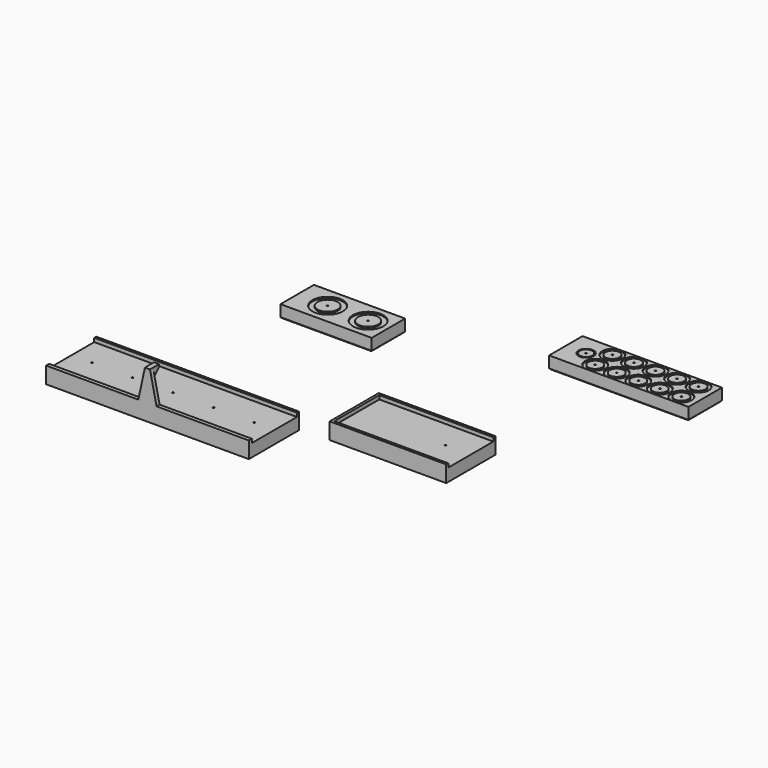
from build123d import *

# Parameters (mm, degrees)
SKETCH_W        = 160
SKETCH_H        = 44.45
SKETCH_R        = 0.6
PAD_DEPTH       = 10
SKETCH001_W     = 160
SKETCH001_H     = 3
SKETCH001_H_2   = 2
PAD001_DEPTH    = 13
PAD002_DEPTH    = 3
PAD003_DEPTH    = 2
SKETCH010_R     = 12
SKETCH010_R_2   = 8
POCKET002_DEPTH = 1
SKETCH004_W     = 90
SKETCH004_H     = 44.45
SKETCH004_R     = 0.6
PAD004_DEPTH    = 10
PAD005_DEPTH    = 13
SKETCH011_R     = 12
SKETCH011_R_2   = 8
POCKET003_DEPTH = 1
SKETCH006_W     = 72
SKETCH006_H     = 33
SKETCH006_R     = 0.6
PAD006_DEPTH    = 10
SKETCH012_R     = 12
SKETCH012_R_2   = 8
POCKET004_DEPTH = 1
SKETCH014_W     = 10
SKETCH014_H     = 4
POCKET006_DEPTH = 8
CHAMFER001_SIZE = 1
SKETCH007_W     = 110
SKETCH007_H     = 33
SKETCH007_R     = 0.6
PAD007_DEPTH    = 10
SKETCH008_W     = 8
SKETCH008_H     = 4
POCKET_DEPTH    = 8
SKETCH013_R     = 6
SKETCH013_R_2   = 5
SKETCH013_R_3   = 8
SKETCH013_R_4   = 5.5
POCKET005_DEPTH = 1
CHAMFER_SIZE    = 1


with BuildPart() as buttons:
    # Sketch → Pad (new body)
    with BuildSketch(Plane.XY):
        Rectangle(SKETCH_W, SKETCH_H)
        with Locations((-64, 0)):
            Circle(SKETCH_R, mode=Mode.SUBTRACT)
        with Locations((-32, 0)):
            Circle(SKETCH_R, mode=Mode.SUBTRACT)
        Circle(SKETCH_R, mode=Mode.SUBTRACT)
        with Locations((32, 0)):
            Circle(SKETCH_R, mode=Mode.SUBTRACT)
        with Locations((64, 0)):
            Circle(SKETCH_R, mode=Mode.SUBTRACT)
    extrude(amount=PAD_DEPTH)

    # Sketch001 → Pad001 (join)
    with BuildSketch(Plane.XY):
        with Locations((0, -23.725)):
            Rectangle(SKETCH001_W, SKETCH001_H)
        with Locations((0, 23.225)):
            Rectangle(SKETCH001_W, SKETCH001_H_2)
    extrude(amount=PAD001_DEPTH)

    # Sketch002 (on Face1 of Pad001) → Pad002 (join)
    with BuildSketch(Plane.XZ.offset(25.225)):
        Polygon((-10, 0), (10, 0), (2, 37), (-2, 37), align=None)
    extrude(amount=-PAD002_DEPTH)

    # Sketch003 → Pad003 (join, symmetric)
    with BuildSketch(Plane.YZ):
        Polygon((-22.225, 37), (-16.225, 37), (-16.225, 35), (-22.225, 29), align=None)
    extrude(amount=PAD003_DEPTH, both=True)

    # Sketch010 (on Face2 of Pad003) → Pocket002 (cut)
    with BuildSketch(Plane(origin=(0, 0, 0), x_dir=(1, 0, 0), z_dir=(0, 0, -1))):
        with Locations((64, 0)):
            Circle(SKETCH010_R)
        with Locations((64, 0)):
            Circle(SKETCH010_R_2, mode=Mode.SUBTRACT)
        with Locations((32, 0)):
            Circle(SKETCH010_R)
        with Locations((32, 0)):
            Circle(SKETCH010_R_2, mode=Mode.SUBTRACT)
        Circle(SKETCH010_R)
        Circle(SKETCH010_R_2, mode=Mode.SUBTRACT)
        with Locations((-32, 0)):
            Circle(SKETCH010_R)
        with Locations((-32, 0)):
            Circle(SKETCH010_R_2, mode=Mode.SUBTRACT)
        with Locations((-64, 0)):
            Circle(SKETCH010_R)
        with Locations((-64, 0)):
            Circle(SKETCH010_R_2, mode=Mode.SUBTRACT)
    extrude(amount=-POCKET002_DEPTH, mode=Mode.SUBTRACT)


with BuildPart() as buttons_1:
    # Body placement: moved
    add(buttons.part.moved(Location((-100, -100, 0))))


with BuildPart() as oled:
    # Sketch004 → Pad004 (new body)
    with BuildSketch(Plane.XY):
        Rectangle(SKETCH004_W, SKETCH004_H)
        with Locations((25, 0)):
            Circle(SKETCH004_R, mode=Mode.SUBTRACT)
    extrude(amount=PAD004_DEPTH)

    # Sketch005 → Pad005 (join)
    with BuildSketch(Plane.XY):
        Polygon((45, -22.225), (45, -24.225), (-47, -24.225), (-47, 24.225), (45, 24.225), (45, 22.225), (-45, 22.225), (-45, -22.225), align=None)
    extrude(amount=PAD005_DEPTH)

    # Sketch011 (on Face11 of Pad005) → Pocket003 (cut)
    with BuildSketch(Plane(origin=(0, 0, 0), x_dir=(1, 0, 0), z_dir=(0, 0, -1))):
        with Locations((25, 0)):
            Circle(SKETCH011_R)
        with Locations((25, 0)):
            Circle(SKETCH011_R_2, mode=Mode.SUBTRACT)
    extrude(amount=-POCKET003_DEPTH, mode=Mode.SUBTRACT)


with BuildPart() as oled_1:
    # Body001 placement: moved
    add(oled.part.moved(Location((50, -50, 0))))


with BuildPart() as ac:
    # Sketch006 → Pad006 (new body)
    with BuildSketch(Plane.XY):
        with Locations((-36, 0)):
            Rectangle(SKETCH006_W, SKETCH006_H)
        with Locations((-16, 0)):
            Circle(SKETCH006_R, mode=Mode.SUBTRACT)
        with Locations((-48, 0)):
            Circle(SKETCH006_R, mode=Mode.SUBTRACT)
    extrude(amount=PAD006_DEPTH)

    # Sketch012 (on Face8 of Pad006) → Pocket004 (cut)
    with BuildSketch(Plane.XY.offset(10)):
        with Locations((-16, 0)):
            Circle(SKETCH012_R)
        with Locations((-16, 0)):
            Circle(SKETCH012_R_2, mode=Mode.SUBTRACT)
        with Locations((-48, 0)):
            Circle(SKETCH012_R)
        with Locations((-48, 0)):
            Circle(SKETCH012_R_2, mode=Mode.SUBTRACT)
    extrude(amount=-POCKET004_DEPTH, mode=Mode.SUBTRACT)

    # Sketch014 (on Face3 of Pocket004) → Pocket006 (cut)
    with BuildSketch(Plane(origin=(-72, 0, 0), x_dir=(0, -1, 0), z_dir=(-1, 0, 0))):
        with Locations((0, 2)):
            Rectangle(SKETCH014_W, SKETCH014_H)
    extrude(amount=-POCKET006_DEPTH, mode=Mode.SUBTRACT)

    # Chamfer001
    chamfer001_edges = [ac.edges().sort_by_distance(p)[0] for p in [
        (-72, -10.75, 0),
        (-72, 10.75, 0),
        (-36, -16.5, 0),
        (0, 0, 0),
        (-36, 16.5, 0),
    ]]
    chamfer(chamfer001_edges, length=CHAMFER001_SIZE)


with BuildPart() as ac_1:
    # Body002 placement: moved
    add(ac.part.moved(Location((-50, 50, 0))))


with BuildPart() as dc:
    # Sketch007 → Pad007 (new body)
    with BuildSketch(Plane.XY):
        with Locations((55, 0)):
            Rectangle(SKETCH007_W, SKETCH007_H)
        with Locations((16, 0)):
            Circle(SKETCH007_R, mode=Mode.SUBTRACT)
        with Locations((30, 8.5)):
            Circle(SKETCH007_R, mode=Mode.SUBTRACT)
        with Locations((47, 8.5)):
            Circle(SKETCH007_R, mode=Mode.SUBTRACT)
        with Locations((64, 8.5)):
            Circle(SKETCH007_R, mode=Mode.SUBTRACT)
        with Locations((81, 8.5)):
            Circle(SKETCH007_R, mode=Mode.SUBTRACT)
        with Locations((98, 8.5)):
            Circle(SKETCH007_R, mode=Mode.SUBTRACT)
        with Locations((30, -8.5)):
            Circle(SKETCH007_R, mode=Mode.SUBTRACT)
        with Locations((47, -8.5)):
            Circle(SKETCH007_R, mode=Mode.SUBTRACT)
        with Locations((64, -8.5)):
            Circle(SKETCH007_R, mode=Mode.SUBTRACT)
        with Locations((81, -8.5)):
            Circle(SKETCH007_R, mode=Mode.SUBTRACT)
        with Locations((98, -8.5)):
            Circle(SKETCH007_R, mode=Mode.SUBTRACT)
    extrude(amount=PAD007_DEPTH)

    # Sketch008 (on Face1 of Pad007) → Pocket (cut)
    with BuildSketch(Plane(origin=(0, 0, 0), x_dir=(0, -1, 0), z_dir=(-1, 0, 0))):
        with Locations((0, 2)):
            Rectangle(SKETCH008_W, SKETCH008_H)
    extrude(amount=-POCKET_DEPTH, mode=Mode.SUBTRACT)

    # Sketch013 (on Face7 of Pocket) → Pocket005 (cut)
    with BuildSketch(Plane.XY.offset(10)):
        with Locations((16, 0)):
            Circle(SKETCH013_R)
        with Locations((16, 0)):
            Circle(SKETCH013_R_2, mode=Mode.SUBTRACT)
        with Locations((98, 8.5)):
            Circle(SKETCH013_R_3)
        with Locations((98, 8.5)):
            Circle(SKETCH013_R_4, mode=Mode.SUBTRACT)
        with Locations((98, -8.5)):
            Circle(SKETCH013_R_3)
        with Locations((98, -8.5)):
            Circle(SKETCH013_R_4, mode=Mode.SUBTRACT)
        with Locations((81, -8.5)):
            Circle(SKETCH013_R_3)
        with Locations((81, -8.5)):
            Circle(SKETCH013_R_4, mode=Mode.SUBTRACT)
        with Locations((81, 8.5)):
            Circle(SKETCH013_R_3)
        with Locations((81, 8.5)):
            Circle(SKETCH013_R_4, mode=Mode.SUBTRACT)
        with Locations((64, 8.5)):
            Circle(SKETCH013_R_3)
        with Locations((64, 8.5)):
            Circle(SKETCH013_R_4, mode=Mode.SUBTRACT)
        with Locations((64, -8.5)):
            Circle(SKETCH013_R_3)
        with Locations((64, -8.5)):
            Circle(SKETCH013_R_4, mode=Mode.SUBTRACT)
        with Locations((47, -8.5)):
            Circle(SKETCH013_R_3)
        with Locations((47, -8.5)):
            Circle(SKETCH013_R_4, mode=Mode.SUBTRACT)
        with Locations((30, -8.5)):
            Circle(SKETCH013_R_3)
        with Locations((30, -8.5)):
            Circle(SKETCH013_R_4, mode=Mode.SUBTRACT)
        with Locations((30, 8.5)):
            Circle(SKETCH013_R_3)
        with Locations((30, 8.5)):
            Circle(SKETCH013_R_4, mode=Mode.SUBTRACT)
        with Locations((47, 8.5)):
            Circle(SKETCH013_R_3)
        with Locations((47, 8.5)):
            Circle(SKETCH013_R_4, mode=Mode.SUBTRACT)
    extrude(amount=-POCKET005_DEPTH, mode=Mode.SUBTRACT)

    # Chamfer
    chamfer_edges = [dc.edges().sort_by_distance(p)[0] for p in [
        (0, -10.25, 0),
        (0, 10.25, 0),
        (55, -16.5, 0),
        (110, 0, 0),
        (55, 16.5, 0),
    ]]
    chamfer(chamfer_edges, length=CHAMFER_SIZE)


with BuildPart() as dc_1:
    # Body003 placement: moved
    add(dc.part.moved(Location((50, 100, 0))))


solid = Compound([buttons_1.part, oled_1.part, ac_1.part, dc_1.part])
